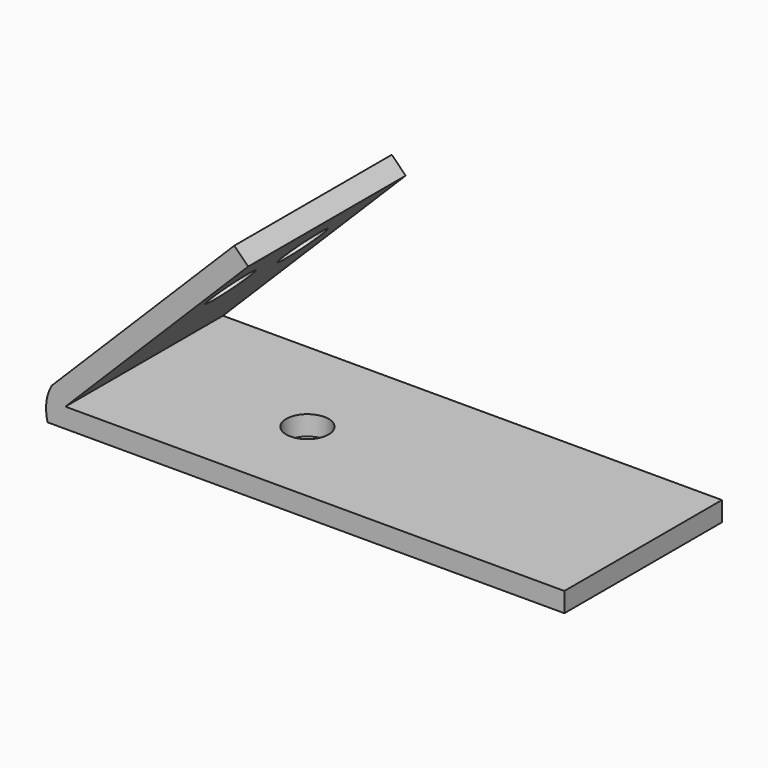
from build123d import *

# Parameters (mm, degrees)
F1_DEPTH = 19.05
F3_R     = 2.29653
F4_DEPTH = 5.588
F2_R     = 2.052631
F5_DEPTH = 5.842


with BuildPart() as f1:
    # F0 (on Front) → F1 (new body)
    with BuildSketch(Plane.XZ):
        with BuildLine():
            Line((60.027805, 1.9), (11.752726, 1.9))
            Line((11.752726, 1.9), (29.430396, 19.57767))
            Line((29.430396, 19.57767), (28.086893, 20.921172))
            Line((28.086893, 20.921172), (10.409223, 3.243503))
            ThreePointArc((10.409223, 3.243503), (9.906439, 1.65845), (10.027805, 0))
            Line((10.027805, 0), (60.027805, 0))
            Line((60.027805, 0), (60.027805, 1.9))
        make_face()
    extrude(amount=F1_DEPTH)

    # F3 (on face) → F4 (cut)
    with BuildSketch(Plane(origin=(3.58286, 0, -3.58286), x_dir=(0, -1, 0), z_dir=(-0.707107, 0, 0.707107))):
        with Locations((14.55, 27.153935)):
            Circle(F3_R)
        with Locations((5.83333, 27.153935)):
            Circle(F3_R)
    extrude(amount=-F4_DEPTH, mode=Mode.SUBTRACT)

    # F2 (on Top) → F5 (cut)
    with BuildSketch(Plane.XY):
        with Locations((28.080662, -10.191665)):
            Circle(F2_R)
    extrude(amount=F5_DEPTH, mode=Mode.SUBTRACT)


solid = f1.part
